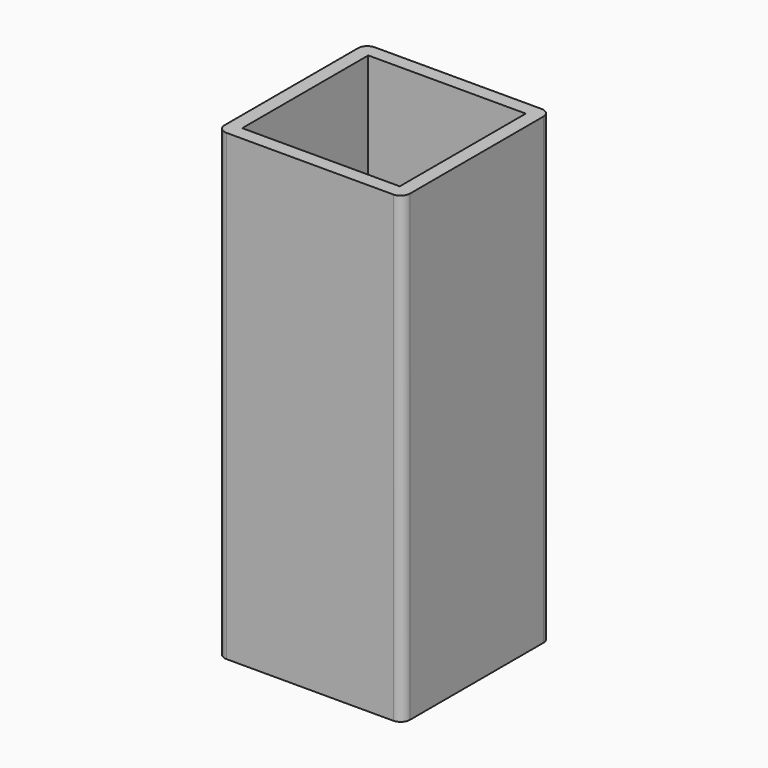
from build123d import *

# Parameters (mm, degrees)
SKETCH_W  = 34
SKETCH_H  = 34
PAD_DEPTH = 100


with BuildPart() as part:
    # Sketch → Pad (new body)
    with BuildSketch(Plane.XY):
        with BuildLine():
            Line((2, 0), (38, 0))
            ThreePointArc((38, 0), (39.414214, 0.585786), (40, 2))
            Line((40, 2), (40, 38))
            ThreePointArc((40, 38), (39.414214, 39.414214), (38, 40))
            Line((38, 40), (2, 40))
            ThreePointArc((2, 40), (0.585786, 39.414214), (0, 38))
            Line((0, 38), (0, 2))
            ThreePointArc((0, 2), (0.585786, 0.585786), (2, 0))
        make_face()
        with Locations((20, 20)):
            Rectangle(SKETCH_W, SKETCH_H, mode=Mode.SUBTRACT)
    extrude(amount=PAD_DEPTH)


solid = part.part
